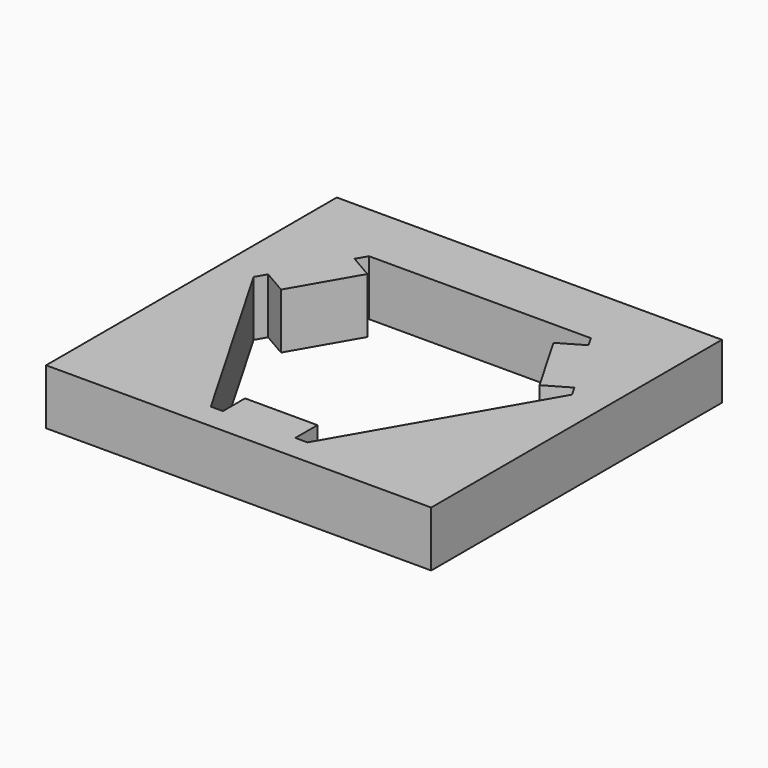
from build123d import *

# Parameters (mm, degrees)
F0_W     = 88.187896
F0_H     = 83.210134
F1_DEPTH = 6.35


with BuildPart() as f1:
    # F0 (on Top) → F1 (new body, symmetric)
    with BuildSketch(Plane.XY):
        Polygon((25.4036, 27.447224), (-25.3964, 27.447224), (-26.784018, 25.049847), (-21.30637, 21.879347), (-29.594936, 7.523129), (-35.091718, 10.696698), (-36.487325, 8.285518), (-11.087325, -35.708573), (-8.31331, -35.711601), (-8.31331, -29.391531), (8.282247, -29.391531), (8.282247, -35.729718), (11.052662, -35.732742), (36.452662, 8.261349), (35.076028, 10.65177), (29.610468, 7.496227), (21.312689, 21.868402), (26.793939, 25.033003), align=None)
        Rectangle(F0_W, F0_H)
        Polygon((-26.784018, 25.049847), (-25.3964, 27.447224), (25.4036, 27.447224), (26.793939, 25.033003), (21.312689, 21.868402), (29.610468, 7.496227), (35.076028, 10.65177), (36.452662, 8.261349), (11.052662, -35.732742), (8.282247, -35.729718), (8.282247, -29.391531), (-8.31331, -29.391531), (-8.31331, -35.711601), (-11.087325, -35.708573), (-36.487325, 8.285518), (-35.091718, 10.696698), (-29.594936, 7.523129), (-21.30637, 21.879347), align=None, mode=Mode.SUBTRACT)
    extrude(amount=F1_DEPTH, both=True)


solid = f1.part
